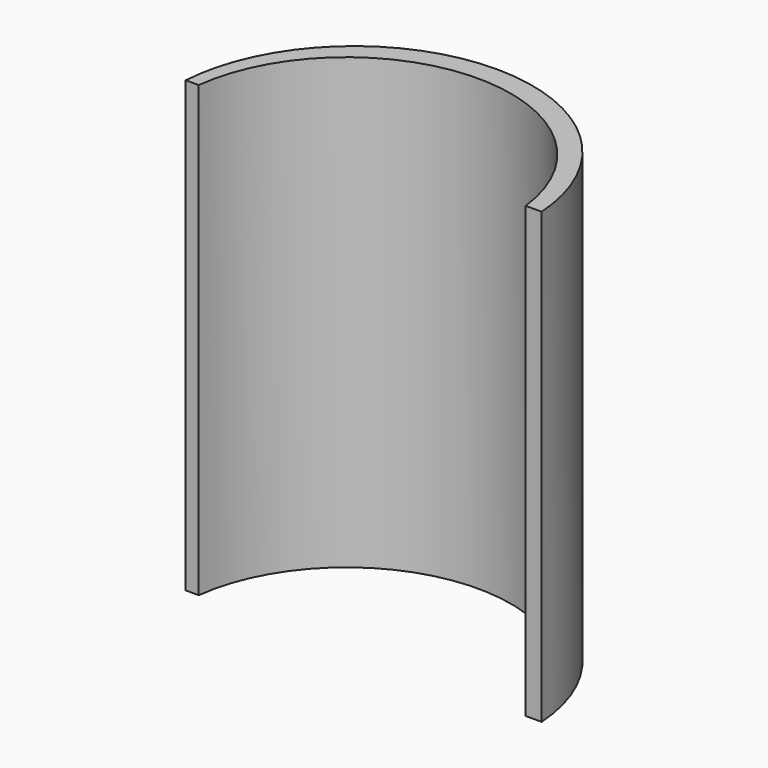
from build123d import *

# Parameters (mm, degrees)
F1_DEPTH = 8


with BuildPart() as f1:
    # F0 (on Top) → F1 (new body)
    with BuildSketch(Plane.XY):
        with BuildLine():
            ThreePointArc((-6.107791, 0), (-3.195979, 2.583277), (-0.284167, 0))
            Line((-0.284167, 0), (0, 0))
            ThreePointArc((0, 0), (-3.169946, 2.963084), (-6.339892, 0))
            Line((-6.339892, 0), (-6.107791, 0))
        make_face()
    extrude(amount=F1_DEPTH)


with BuildPart() as f2_1:
    # F2: copy of F1
    add(f1.part)


solid = Compound([f1.part, f2_1.part])
